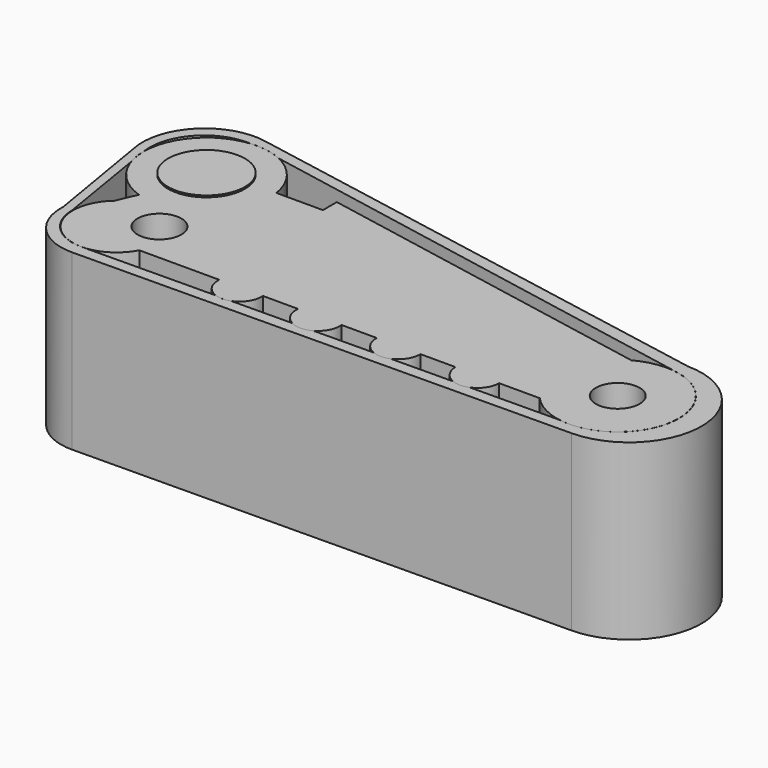
from build123d import *

# Parameters (mm, degrees)
F1_DEPTH = 25.4
F3_DEPTH = 25.20536
F4_R     = 5.579874
F5_DEPTH = 0.254
F6_R     = 3.175
F7_DEPTH = 44.39207
F8_R     = 3.175
F9_DEPTH = 31.86293


with BuildPart() as f1:
    # F0 (on Top) → F1 (new body)
    with BuildSketch(Plane.XY):
        with BuildLine():
            Line((-5.638285, 0), (-5.638285, 2.921))
            ThreePointArc((-5.638285, 2.921), (-6.35, 0), (-5.638285, -2.921))
            Line((-5.638285, -2.921), (-5.638285, 0))
        make_face()
        with BuildLine():
            ThreePointArc((-5.638285, -2.921), (0, -6.35), (5.638285, -2.921))
            Line((5.638285, -2.921), (-5.638285, -2.921))
        make_face()
        with BuildLine():
            ThreePointArc((79.156951, 3.048), (74.819142, 10.665679), (66.054377, 10.822231))
            Line((66.054377, 10.822231), (75.641715, 9.017))
            Line((75.641715, 9.017), (75.641715, -2.921))
            Line((75.641715, -2.921), (63.754906, -2.921))
            ThreePointArc((63.754906, -2.921), (73.500084, -5.211115), (79.156951, 3.048))
        make_face()
        with BuildLine():
            ThreePointArc((51.528946, -2.921), (54.7037, -6.056425), (57.878453, -2.921))
            Line((57.878453, -2.921), (51.528946, -2.921))
        make_face()
        with BuildLine():
            Line((46.447709, -2.921), (40.09969, -2.921))
            ThreePointArc((40.09969, -2.921), (43.2737, -6.175297), (46.447709, -2.921))
        make_face()
        with BuildLine():
            Line((35.001715, -2.921), (28.685684, -2.921))
            ThreePointArc((28.685684, -2.921), (31.8437, -6.42397), (35.001715, -2.921))
        make_face()
        with BuildLine():
            Line((23.578851, -2.921), (17.248548, -2.921))
            ThreePointArc((17.248548, -2.921), (20.4137, -6.345881), (23.578851, -2.921))
        make_face()
        with BuildLine():
            ThreePointArc((8.99139, 17.772627), (-5.886569, 23.271042), (-2.910999, 7.691176))
            ThreePointArc((-2.910999, 7.691176), (5.312199, 8.923104), (9.10778, 16.321225))
            ThreePointArc((9.10778, 16.321225), (9.078636, 17.049256), (8.99139, 17.772627))
        make_face()
        with BuildLine():
            Line((-5.638285, 2.921), (5.638285, 2.921))
            ThreePointArc((5.638285, 2.921), (1.213203, 6.233028), (-4.131079, 4.822519))
            ThreePointArc((-4.131079, 4.822519), (-4.97635, 3.944419), (-5.638285, 2.921))
        make_face()
        with BuildLine():
            Line((75.641715, 9.017), (66.054377, 10.822231))
            ThreePointArc((66.054377, 10.822231), (61.563085, 4.509714), (63.754906, -2.921))
            Line((63.754906, -2.921), (75.641715, -2.921))
            Line((75.641715, -2.921), (75.641715, 9.017))
        make_face()
        with BuildLine():
            ThreePointArc((5.638285, -2.921), (6.169506, -1.503228), (6.35, 0))
            ThreePointArc((6.35, 0), (6.169506, 1.503228), (5.638285, 2.921))
            Line((5.638285, 2.921), (-5.638285, 2.921))
            Line((-5.638285, 2.921), (-5.638285, 0))
            Line((-5.638285, 0), (-5.638285, -2.921))
            Line((-5.638285, -2.921), (5.638285, -2.921))
        make_face()
        with BuildLine():
            ThreePointArc((5.638285, 2.921), (6.169506, 1.503228), (6.35, 0))
            ThreePointArc((6.35, 0), (6.169506, -1.503228), (5.638285, -2.921))
            Line((5.638285, -2.921), (17.248548, -2.921))
            Line((17.248548, -2.921), (23.578851, -2.921))
            Line((23.578851, -2.921), (28.685684, -2.921))
            Line((28.685684, -2.921), (35.001715, -2.921))
            Line((35.001715, -2.921), (40.09969, -2.921))
            Line((40.09969, -2.921), (46.447709, -2.921))
            Line((46.447709, -2.921), (51.528946, -2.921))
            Line((51.528946, -2.921), (57.878453, -2.921))
            Line((57.878453, -2.921), (63.754906, -2.921))
            ThreePointArc((63.754906, -2.921), (61.563085, 4.509714), (66.054377, 10.822231))
            Line((66.054377, 10.822231), (15.734452, 20.297137))
            Line((15.734452, 20.297137), (15.734452, 17.772627))
            Line((15.734452, 17.772627), (15.734452, 15.979137))
            Line((15.734452, 15.979137), (11.837592, 10.647411))
            Line((11.837592, 10.647411), (5.638285, 2.921))
        make_face()
        with BuildLine():
            ThreePointArc((-4.131079, 4.822519), (1.213203, 6.233028), (5.638285, 2.921))
            Line((5.638285, 2.921), (11.837592, 10.647411))
            Line((11.837592, 10.647411), (15.734452, 15.979137))
            Line((15.734452, 15.979137), (15.734452, 17.772627))
            Line((15.734452, 17.772627), (8.99139, 17.772627))
            ThreePointArc((8.99139, 17.772627), (9.078636, 17.049256), (9.10778, 16.321225))
            ThreePointArc((9.10778, 16.321225), (5.312199, 8.923104), (-2.910999, 7.691176))
            Line((-2.910999, 7.691176), (-4.131079, 4.822519))
        make_face()
    extrude(amount=F1_DEPTH)

    # F4 (on face) → F5 (join)
    with BuildSketch(Plane.XY.offset(25.4)):
        with Locations((0, 16.321225)):
            Circle(F4_R)
    extrude(amount=F5_DEPTH)

    # F6 (on face) → F7 (cut)
    with BuildSketch(Plane.XY.offset(25.4)):
        with Locations((70.299298, 3.048)):
            Circle(F6_R)
    extrude(amount=-F7_DEPTH, mode=Mode.SUBTRACT)

    # F8 (on face) → F9 (cut)
    with BuildSketch(Plane.XY.offset(25.4)):
        with Locations((3.790446, 3.048)):
            Circle(F8_R)
    extrude(amount=-F9_DEPTH, mode=Mode.SUBTRACT)


with BuildPart() as f3:
    # F2 (on face) → F3 (new body)
    with BuildSketch(Plane.XY.offset(25.4)):
        with BuildLine():
            Line((71.960053, 13.675588), (0, 26.900332))
            ThreePointArc((0, 26.900332), (-8.060024, 24.352305), (-10.466903, 16.249011))
            Line((-10.466903, 16.249011), (-7.74266, 0))
            ThreePointArc((-7.74266, 0), (-5.617745, -5.712793), (0, -8.07758))
            Line((0, -8.07758), (71.960053, -7.379851))
            ThreePointArc((71.960053, -7.379851), (82.38619, 3.147869), (71.960053, 13.675588))
        make_face()
        with BuildLine():
            Line((3.857274, 24.571867), (71.960053, 11.74857))
            ThreePointArc((71.960053, 11.74857), (79.175257, 3.048), (71.960053, -5.65257))
            ThreePointArc((71.960053, -5.65257), (70.385178, -5.809237), (68.807561, -5.683137))
            Line((68.807561, -5.683137), (55.934991, -5.80795))
            ThreePointArc((55.934991, -5.80795), (54.734483, -6.056276), (53.529386, -5.831275))
            Line((53.529386, -5.831275), (44.524382, -5.918588))
            ThreePointArc((44.524382, -5.918588), (43.304483, -6.175148), (42.079839, -5.94229))
            Line((42.079839, -5.94229), (33.381634, -6.026628))
            ThreePointArc((33.381634, -6.026628), (31.874483, -6.423821), (30.359914, -6.055927))
            Line((30.359914, -6.055927), (21.534436, -6.141499))
            ThreePointArc((21.534436, -6.141499), (20.444483, -6.345732), (19.350775, -6.162672))
            Line((19.350775, -6.162672), (0.061567, -6.349702))
            Line((0.061567, -6.349702), (0, -6.350298))
            ThreePointArc((0, -6.350298), (-4.53851, -4.513691), (-6.435294, 0))
            Line((-6.435294, 0), (-8.650971, 13.473006))
            ThreePointArc((-8.650971, 13.473006), (-8.987064, 14.843275), (-9.107494, 16.249011))
            ThreePointArc((-9.107494, 16.249011), (-7.164895, 22.827532), (-0.803566, 25.393487))
            ThreePointArc((-0.803566, 25.393487), (1.581154, 25.290707), (3.857274, 24.571867))
        make_face(mode=Mode.SUBTRACT)
    extrude(amount=-F3_DEPTH)


solid = Compound([f1.part, f3.part])
